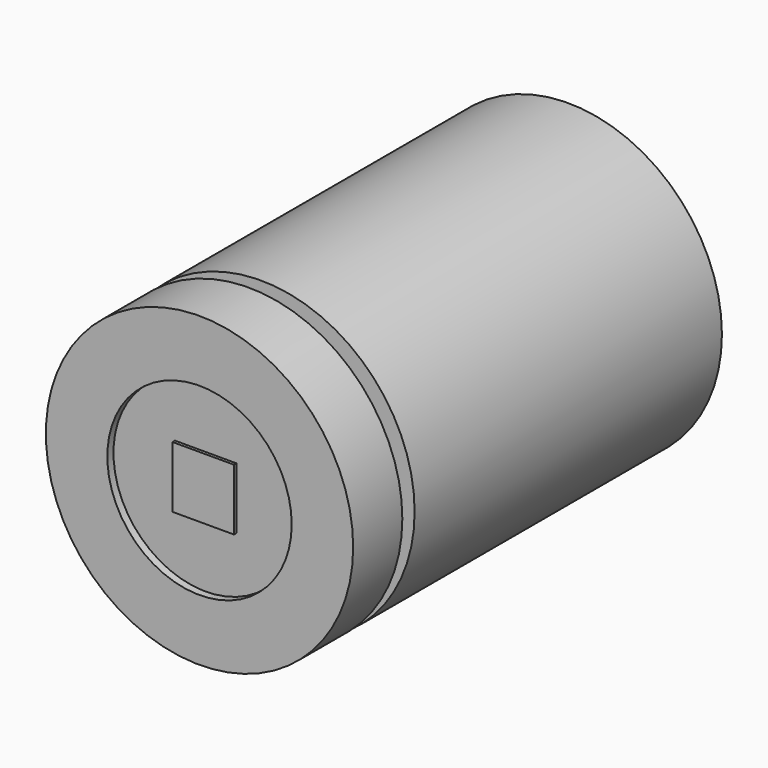
from build123d import *

# Parameters (mm, degrees)
F0_R     = 10
F1_DEPTH = 25
F2_R     = 8
F3_DEPTH = 1
F4_R     = 10
F4_R_2   = 8
F5_DEPTH = 4
F6_R     = 6
F7_DEPTH = 0.5
F8_W     = 4
F8_H     = 4
F9_DEPTH = 0.2


with BuildPart() as f1:
    # F0 (on Front) → F1 (new body)
    with BuildSketch(Plane.XZ):
        Circle(F0_R)
        Circle(F0_R)
    extrude(amount=F1_DEPTH)

    # F2 (on face) → F3 (join)
    with BuildSketch(Plane.XZ.offset(25)):
        Circle(F2_R)
    extrude(amount=F3_DEPTH)

    # F4 (on face) → F5 (join)
    with BuildSketch(Plane.XZ.offset(26)):
        Circle(F4_R)
        Circle(F4_R_2, mode=Mode.SUBTRACT)
        Circle(F4_R_2)
    extrude(amount=F5_DEPTH)

    # F6 (on face) → F7 (cut)
    with BuildSketch(Plane.XZ.offset(30)):
        Circle(F6_R)
    extrude(amount=-F7_DEPTH, mode=Mode.SUBTRACT)


with BuildPart() as f9:
    # F8 (on face) → F9 (new body)
    with BuildSketch(Plane.XZ.offset(29.5)):
        Rectangle(F8_W, F8_H)
    extrude(amount=F9_DEPTH)


solid = Compound([f1.part, f9.part])
